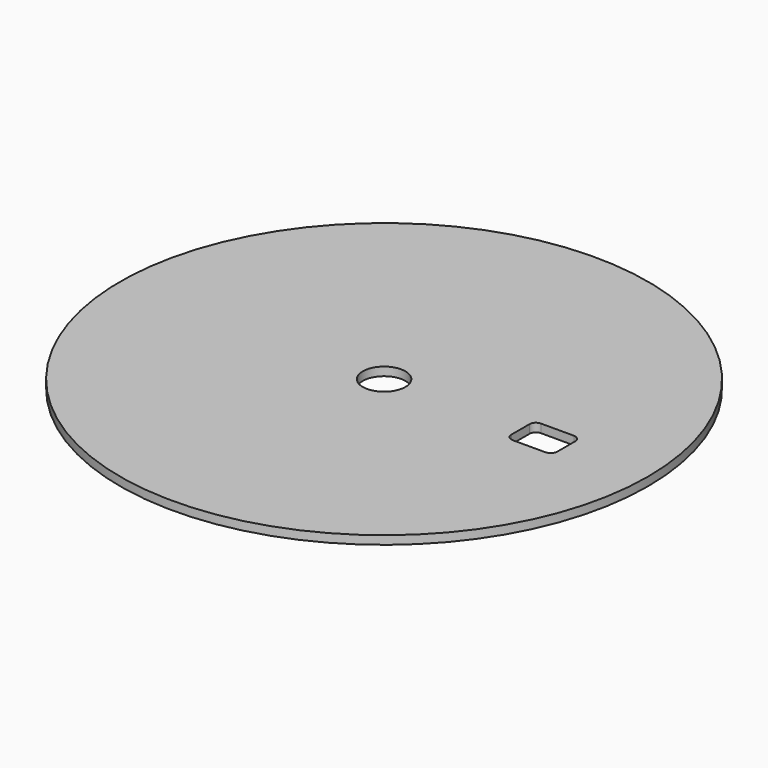
from build123d import *

# Parameters (mm, degrees)
F0_R     = 15.5
F0_R_2   = 1.25
F1_DEPTH = 0.5


with BuildPart() as f1:
    # F0 (on Top) → F1 (new body)
    with BuildSketch(Plane.XY):
        Circle(F0_R)
        Circle(F0_R_2, mode=Mode.SUBTRACT)
        with BuildLine():
            ThreePointArc((8, 0.681886), (8.107818, 0.942182), (8.368114, 1.05))
            Line((8.368114, 1.05), (10.3, 1.05))
            ThreePointArc((10.3, 1.05), (10.582843, 0.932843), (10.7, 0.65))
            Line((10.7, 0.65), (10.7, -0.65))
            ThreePointArc((10.7, -0.65), (10.582843, -0.932843), (10.3, -1.05))
            Line((10.3, -1.05), (8.4, -1.05))
            ThreePointArc((8.4, -1.05), (8.117157, -0.932843), (8, -0.65))
            Line((8, -0.65), (8, 0.681886))
        make_face(mode=Mode.SUBTRACT)
    extrude(amount=F1_DEPTH)


solid = f1.part
